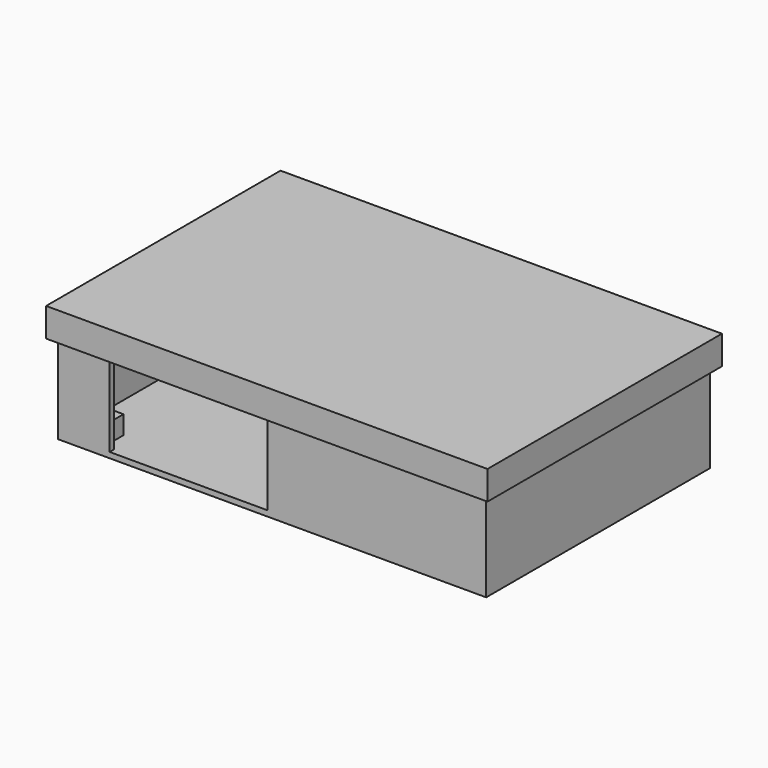
from build123d import *

# Parameters (mm, degrees)
F0_W     = 92.4
F0_H     = 60.4
F1_DEPTH = 1.2
F3_DEPTH = 23
F4_W     = 8
F4_H     = 5
F4_W_2   = 5
F5_DEPTH = 4
F6_W     = 95.2
F6_H     = 63.2
F7_DEPTH = 1.2
F8_W     = 95.2
F8_H     = 63.2
F8_W_2   = 92.8
F8_H_2   = 60.8
F9_DEPTH = 5


with BuildPart() as f1:
    # F0 (on Top) → F1 (new body)
    with BuildSketch(Plane.XY):
        with Locations((46.2, -30.2)):
            Rectangle(F0_W, F0_H)
    extrude(amount=F1_DEPTH)

    # F2 (on face) → F3 (join)
    with BuildSketch(Plane.XY.offset(1.2)):
        Polygon((0, 0), (0, -60.4), (11.2, -60.4), (11.2, -59.2), (1.2, -59.2), (1.2, -1.2), (91.2, -1.2), (91.2, -59.2), (45.2, -59.2), (45.2, -60.4), (92.4, -60.4), (92.4, 0), align=None)
    extrude(amount=F3_DEPTH)

    # F4 (on face) → F5 (join)
    with BuildSketch(Plane.XY.offset(1.2)):
        with Locations((5.2, -3.7)):
            Rectangle(F4_W, F4_H)
        with Locations((5.2, -56.7)):
            Rectangle(F4_W, F4_H)
        with Locations((64.7, -56.7)):
            Rectangle(F4_W_2, F4_H)
        with Locations((64.7, -3.7)):
            Rectangle(F4_W_2, F4_H)
    extrude(amount=F5_DEPTH)


with BuildPart() as f7:
    # F6 (on face) → F7 (new body)
    with BuildSketch(Plane.XY.offset(24.2)):
        with Locations((46.2, -30.2)):
            Rectangle(F6_W, F6_H)
    extrude(amount=F7_DEPTH)

    # F8 (on face) → F9 (join)
    with BuildSketch(Plane(origin=(0, 0, 24.2), x_dir=(1, 0, 0), z_dir=(0, 0, -1))):
        with Locations((46.2, 30.2)):
            Rectangle(F8_W, F8_H)
        with Locations((46.2, 30.2)):
            Rectangle(F8_W_2, F8_H_2, mode=Mode.SUBTRACT)
    extrude(amount=F9_DEPTH)


solid = Compound([f1.part, f7.part])
